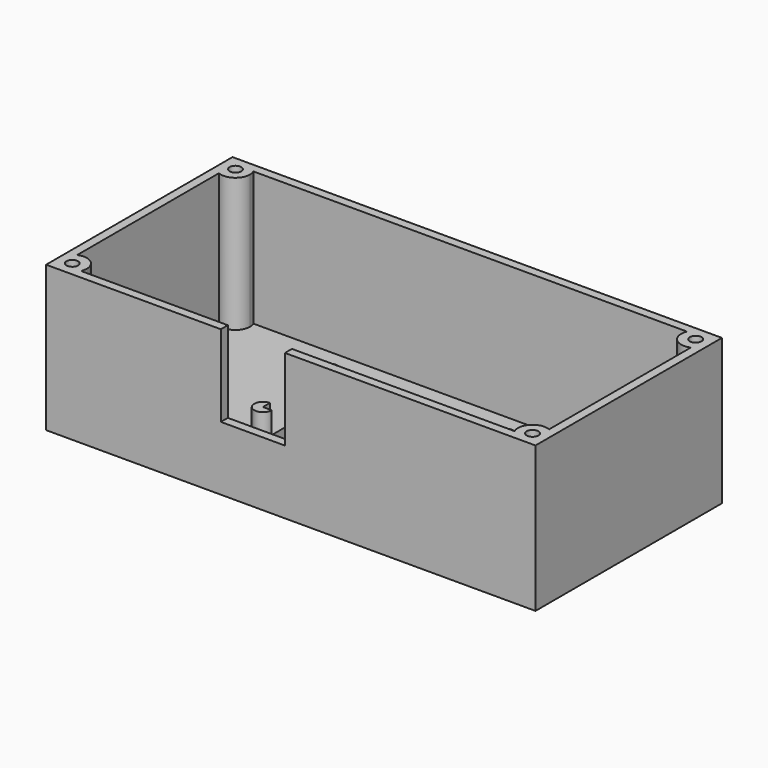
from build123d import *

# Parameters (mm, degrees)
F0_W     = 84
F0_H     = 40
F0_W_2   = 30.2
F0_H_2   = 14.2
F1_DEPTH = 25
F2_W     = 30.2
F2_H     = 14.2
F3_DEPTH = 23
F5_DEPTH = 5
F6_R     = 1
F7_DEPTH = 5
F8_W     = 11
F8_H     = 9
F8_H_2   = 5
F9_DEPTH = 1.5


with BuildPart() as f1:
    # F0 (on Top) → F1 (new body)
    with BuildSketch(Plane.XY):
        Rectangle(F0_W, F0_H)
        Rectangle(F0_W_2, F0_H_2, mode=Mode.SUBTRACT)
    extrude(amount=F1_DEPTH)

    # F2 (on face) → F3 (cut)
    with BuildSketch(Plane.XY.offset(25)):
        with BuildLine():
            Line((-37.2087121525, -18.5), (37.2087121525, -18.5))
            ThreePointArc((37.2087121525, -18.5), (37.732233047, -15.732233047), (40.5, -15.2087121525))
            Line((40.5, -15.2087121525), (40.5, 15.2087121525))
            ThreePointArc((40.5, 15.2087121525), (37.732233047, 15.732233047), (37.2087121525, 18.5))
            Line((37.2087121525, 18.5), (-37.2087121525, 18.5))
            ThreePointArc((-37.2087121525, 18.5), (-37.0527342177, 18.0107741092), (-37, 17.5))
            ThreePointArc((-37, 17.5), (-38.1306936062, 15.4083499337), (-40.5, 15.2087121525))
            Line((-40.5, 15.2087121525), (-40.5, -15.2087121525))
            ThreePointArc((-40.5, -15.2087121525), (-38.1306936062, -15.4083499337), (-37, -17.5))
            ThreePointArc((-37, -17.5), (-37.0527342177, -18.0107741092), (-37.2087121525, -18.5))
        make_face()
        Rectangle(F2_W, F2_H, mode=Mode.SUBTRACT)
    extrude(amount=-F3_DEPTH, mode=Mode.SUBTRACT)

    # F4 (on face) → F5 (join)
    with BuildSketch(Plane.XY.offset(2)):
        with BuildLine():
            Line((-15.1, 7.1), (-13.6, 7.1))
            ThreePointArc((-13.6, 7.1), (-16.1606601718, 8.1606601718), (-15.1, 5.6))
            Line((-15.1, 5.6), (-15.1, 7.1))
        make_face()
        with BuildLine():
            Line((-15.1, -7.1), (-15.1, -5.6))
            ThreePointArc((-15.1, -5.6), (-16.1606601718, -8.1606601718), (-13.6, -7.1))
            Line((-13.6, -7.1), (-15.1, -7.1))
        make_face()
        with BuildLine():
            ThreePointArc((13.6, -7.1), (16.1606601718, -8.1606601718), (15.1, -5.6))
            Line((15.1, -5.6), (15.1, -7.1))
            Line((15.1, -7.1), (13.6, -7.1))
        make_face()
        with BuildLine():
            ThreePointArc((15.1, 5.6), (16.1606601718, 8.1606601718), (13.6, 7.1))
            Line((13.6, 7.1), (15.1, 7.1))
            Line((15.1, 7.1), (15.1, 5.6))
        make_face()
    extrude(amount=F5_DEPTH)

    # F6 (on face) → F7 (cut)
    with BuildSketch(Plane.XY.offset(25)):
        with Locations((-39.5, 17.5)):
            Circle(F6_R)
        with Locations((39.5, 17.5)):
            Circle(F6_R)
        with Locations((39.5, -17.5)):
            Circle(F6_R)
        with Locations((-39.5, -17.5)):
            Circle(F6_R)
    extrude(amount=-F7_DEPTH, mode=Mode.SUBTRACT)

    # F8 (on face) → F9 (cut, through all)
    with BuildSketch(Plane.XZ.offset(20)):
        with Locations((-6.5, 15.5)):
            Rectangle(F8_W, F8_H)
        with Locations((-6.5, 22.5)):
            Rectangle(F8_W, F8_H_2)
    extrude(amount=-F9_DEPTH, mode=Mode.SUBTRACT)


solid = f1.part
